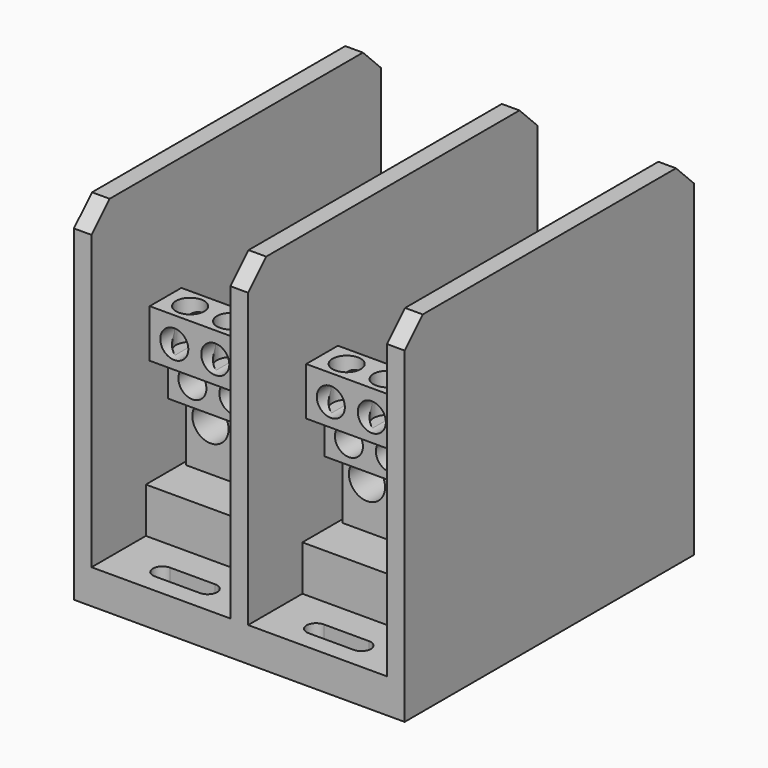
from build123d import *

# Parameters (mm, degrees)
F0_W      = 92.86875
F0_H      = 101.6
F1_DEPTH  = 9.652
F2_W      = 12.7
F2_H      = 5.334
F3_DEPTH  = 9.652
F4_W      = 4.953
F4_H      = 101.6
F5_DEPTH  = 88.503125
F6_W      = 39.004875
F6_H      = 63.5
F7_W      = 39.004875
F7_H      = 63.5
F8_DEPTH  = 12.7
F9_W      = 36.83
F9_H      = 60.325
F10_DEPTH = 44.45
F11_R     = 2.54
F12_R     = 2.54
F13_DEPTH = 22.352
F14_W     = 36.83
F14_H     = 22.225
F15_DEPTH = 11.90625
F16_W     = 36.83
F16_H     = 15.875
F17_DEPTH = 20.240625
F18_W     = 36.83
F18_H     = 11.1125
F19_DEPTH = 8.73125
F20_W     = 36.83
F20_H     = 30.95625
F21_DEPTH = 6.35
F22_W     = 36.83
F22_H     = 19.05
F23_DEPTH = 6.35
F24_R     = 3.937
F25_DEPTH = 11.90625
F26_R     = 3.937
F27_DEPTH = 15.875
F28_R     = 5.08
F29_DEPTH = 23.8125
F30_R     = 9.3265625
F31_DEPTH = 22.86
F32_R     = 8.73125
F33_DEPTH = 22.86
F34_R     = 5.55625
F35_DEPTH = 15.24
F36_R     = 3.96875
F37_DEPTH = 12.7
F38_R     = 3.96875
F39_DEPTH = 10.922
F41_SIZE  = 6.35


with BuildPart() as f1:
    # F0 (on Top) → F1 (new body)
    with BuildSketch(Plane.XY):
        Rectangle(F0_W, F0_H)
    extrude(amount=F1_DEPTH)

    # F2 (on face) → F3 (cut)
    with BuildSketch(Plane.XY.offset(9.652)):
        with Locations((-21.59, 42.8625)):
            Rectangle(F2_W, F2_H)
        with BuildLine():
            Line((-15.24, 45.5295), (-15.24, 40.1955))
            ThreePointArc((-15.24, 40.1955), (-12.573, 42.8625), (-15.24, 45.5295))
        make_face()
        with BuildLine():
            ThreePointArc((-27.94, 45.5295), (-30.607, 42.8625), (-27.94, 40.1955))
            Line((-27.94, 40.1955), (-27.94, 45.5295))
        make_face()
        with Locations((21.59, 42.8625)):
            Rectangle(F2_W, F2_H)
        with BuildLine():
            Line((27.94, 45.5295), (27.94, 40.1955))
            ThreePointArc((27.94, 40.1955), (30.607, 42.8625), (27.94, 45.5295))
        make_face()
        with BuildLine():
            ThreePointArc((15.24, 45.5295), (12.573, 42.8625), (15.24, 40.1955))
            Line((15.24, 40.1955), (15.24, 45.5295))
        make_face()
        with Locations((-21.59, -42.8625)):
            Rectangle(F2_W, F2_H)
        with BuildLine():
            Line((-15.24, -40.1955), (-15.24, -45.5295))
            ThreePointArc((-15.24, -45.5295), (-12.573, -42.8625), (-15.24, -40.1955))
        make_face()
        with BuildLine():
            ThreePointArc((-27.94, -40.1955), (-30.607, -42.8625), (-27.94, -45.5295))
            Line((-27.94, -45.5295), (-27.94, -40.1955))
        make_face()
        with Locations((21.59, -42.8625)):
            Rectangle(F2_W, F2_H)
        with BuildLine():
            Line((27.94, -40.1955), (27.94, -45.5295))
            ThreePointArc((27.94, -45.5295), (30.607, -42.8625), (27.94, -40.1955))
        make_face()
        with BuildLine():
            ThreePointArc((15.24, -40.1955), (12.573, -42.8625), (15.24, -45.5295))
            Line((15.24, -45.5295), (15.24, -40.1955))
        make_face()
    extrude(amount=-F3_DEPTH, mode=Mode.SUBTRACT)

    # F4 (on face) → F5 (join)
    with BuildSketch(Plane.XY.offset(9.652)):
        with Locations((-43.957875, 0)):
            Rectangle(F4_W, F4_H)
        with Locations((43.957875, 0)):
            Rectangle(F4_W, F4_H)
        Rectangle(F4_W, F4_H)
    extrude(amount=F5_DEPTH)

    # F6 (on face) + F7 (on face) → F8 (join)
    with BuildSketch(Plane.XY.offset(9.652)):
        with Locations((-21.9789375, 0)):
            Rectangle(F6_W, F6_H)
    with BuildSketch(Plane.XY.offset(9.652)):
        with Locations((21.9789375, 0)):
            Rectangle(F7_W, F7_H)
    extrude(amount=F8_DEPTH)

    # F11 (on face) + F12 (on face) → F13 (cut)
    with BuildSketch(Plane.XY.offset(22.352)):
        with Locations((-21.9789375, 0)):
            Circle(F11_R)
    with BuildSketch(Plane.XY.offset(22.352)):
        with Locations((21.9789375, 0)):
            Circle(F12_R)
    extrude(amount=-F13_DEPTH, mode=Mode.SUBTRACT)

    # F41
    f41_edges = [f1.edges().sort_by_distance(p)[0] for p in [
        (-43.957875, -50.8, 98.155125),
        (0, -50.8, 98.155125),
        (43.957875, -50.8, 98.155125),
        (43.957875, 50.8, 98.155125),
        (0, 50.8, 98.155125),
        (-43.957875, 50.8, 98.155125),
    ]]
    chamfer(f41_edges, length=F41_SIZE)


with BuildPart() as f10:
    # F9 (on face) → F10 (new body)
    with BuildSketch(Plane.XY.offset(22.352)):
        with Locations((-21.9789375, -1.5875)):
            Rectangle(F9_W, F9_H)
    extrude(amount=F10_DEPTH)

    # F14 (on face) → F15 (cut)
    with BuildSketch(Plane.XY.offset(66.802)):
        with Locations((-21.9789375, 17.4625)):
            Rectangle(F14_W, F14_H)
    extrude(amount=-F15_DEPTH, mode=Mode.SUBTRACT)

    # F16 (on face) → F17 (cut)
    with BuildSketch(Plane.XY.offset(66.802)):
        with Locations((-21.9789375, -1.5875)):
            Rectangle(F16_W, F16_H)
    extrude(amount=-F17_DEPTH, mode=Mode.SUBTRACT)

    # F18 (on face) → F19 (cut)
    with BuildSketch(Plane.XY.offset(66.802)):
        with Locations((-21.9789375, -15.08125)):
            Rectangle(F18_W, F18_H)
    extrude(amount=-F19_DEPTH, mode=Mode.SUBTRACT)

    # F20 (on face) → F21 (cut)
    with BuildSketch(Plane.XZ.offset(31.75)):
        with Locations((-21.9789375, 37.830125)):
            Rectangle(F20_W, F20_H)
    extrude(amount=-F21_DEPTH, mode=Mode.SUBTRACT)

    # F22 (on face) → F23 (cut)
    with BuildSketch(Plane.XZ.offset(25.4)):
        with Locations((-21.9789375, 31.877)):
            Rectangle(F22_W, F22_H)
    extrude(amount=-F23_DEPTH, mode=Mode.SUBTRACT)

    # F24 (on face) → F25 (cut)
    with BuildSketch(Plane.XZ.offset(31.75)):
        with Locations((-21.9789375, 59.65825)):
            Circle(F24_R)
        with Locations((-10.4695625, 59.65825)):
            Circle(F24_R)
        with Locations((-33.4883125, 59.65825)):
            Circle(F24_R)
    extrude(amount=-F25_DEPTH, mode=Mode.SUBTRACT)

    # F26 (on face) → F27 (cut)
    with BuildSketch(Plane.XZ.offset(25.4)):
        with Locations((-33.4883125, 47.355125)):
            Circle(F26_R)
        with Locations((-21.9789375, 47.355125)):
            Circle(F26_R)
        with Locations((-10.4695625, 47.355125)):
            Circle(F26_R)
    extrude(amount=-F27_DEPTH, mode=Mode.SUBTRACT)

    # F28 (on face) → F29 (cut)
    with BuildSketch(Plane.XZ.offset(19.05)):
        with Locations((-21.9789375, 35.052)):
            Circle(F28_R)
        with Locations((-10.4695625, 35.052)):
            Circle(F28_R)
        with Locations((-33.4883125, 35.052)):
            Circle(F28_R)
    extrude(amount=-F29_DEPTH, mode=Mode.SUBTRACT)

    # F30 (on face) → F31 (cut)
    with BuildSketch(Plane(origin=(0, 28.575, 0), x_dir=(-1, 0, 0), z_dir=(0, 1, 0))):
        with Locations((21.9789375, 41.005125)):
            Circle(F30_R)
    extrude(amount=-F31_DEPTH, mode=Mode.SUBTRACT)

    # F32 (on face) → F33 (cut)
    with BuildSketch(Plane.XY.offset(54.89575)):
        with Locations((-21.9789375, 17.4625)):
            Circle(F32_R)
    extrude(amount=-F33_DEPTH, mode=Mode.SUBTRACT)

    # F34 (on face) → F35 (cut)
    with BuildSketch(Plane.XY.offset(46.561375)):
        with Locations((-21.9789375, -2.33404967)):
            Circle(F34_R)
        with Locations((-10.4695625, -2.33404967)):
            Circle(F34_R)
        with Locations((-33.4883125, -2.33404967)):
            Circle(F34_R)
    extrude(amount=-F35_DEPTH, mode=Mode.SUBTRACT)

    # F36 (on face) → F37 (cut)
    with BuildSketch(Plane.XY.offset(58.07075)):
        with Locations((-21.9789375, -15.08125)):
            Circle(F36_R)
        with Locations((-10.4695625, -15.08125)):
            Circle(F36_R)
        with Locations((-33.4883125, -15.08125)):
            Circle(F36_R)
    extrude(amount=-F37_DEPTH, mode=Mode.SUBTRACT)

    # F38 (on face) → F39 (cut)
    with BuildSketch(Plane.XY.offset(66.802)):
        with Locations((-21.9789375, -26.19375)):
            Circle(F38_R)
        with Locations((-10.4695625, -26.19375)):
            Circle(F38_R)
        with Locations((-33.4883125, -26.19375)):
            Circle(F38_R)
    extrude(amount=-F39_DEPTH, mode=Mode.SUBTRACT)


with BuildPart() as f40_1:
    # F40: copy of F10
    add(f10.part.moved(Location((43.95724, 0, 0))))


solid = Compound([f1.part, f10.part, f40_1.part])
